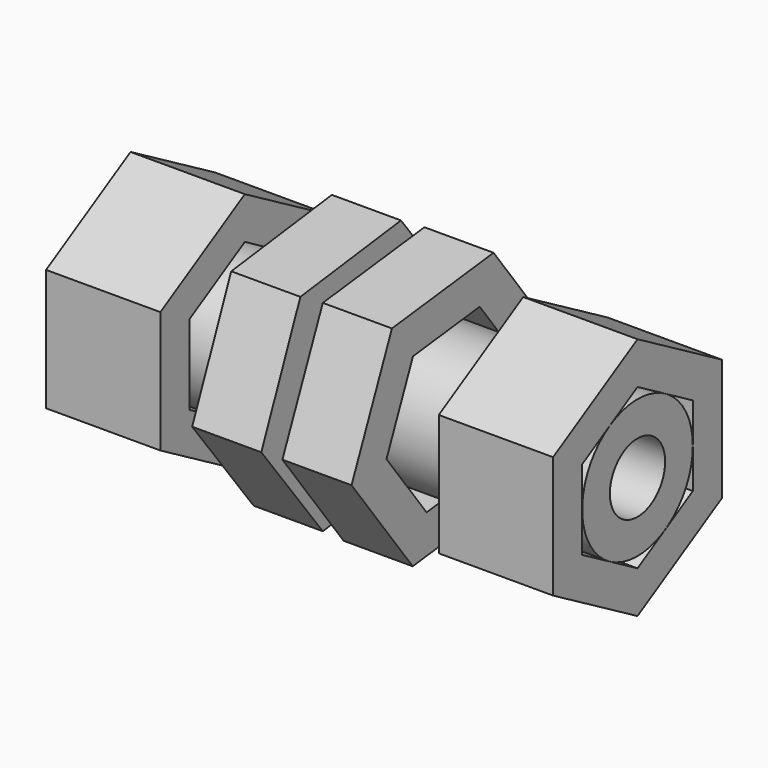
from build123d import *

# Parameters (mm, degrees)
F0_R      = 9.525
F0_R_2    = 4.7625
F1_DEPTH  = 34.925
F3_DEPTH  = 9.525
F6_DEPTH  = 9.525
F8_DEPTH  = 15.748
F10_DEPTH = 15.748


with BuildPart() as f1:
    # F0 (on Right) → F1 (new body, symmetric)
    with BuildSketch(Plane.YZ):
        Circle(F0_R)
        Circle(F0_R_2, mode=Mode.SUBTRACT)
    extrude(amount=F1_DEPTH, both=True)


with BuildPart() as f3:
    # F2 (on Right) → F3 (new body)
    with BuildSketch(Plane.YZ):
        Polygon((10.536149, -14.121386), (17.497554, 2.06388), (6.961405, 16.185266), (-10.536149, 14.121386), (-17.497554, -2.06388), (-6.961405, -16.185266), align=None)
        Polygon((4.56799, 10.620576), (11.481684, 1.354293), (6.913694, -9.266283), (-4.56799, -10.620576), (-11.481684, -1.354293), (-6.913694, 9.266283), align=None, mode=Mode.SUBTRACT)
    extrude(amount=F3_DEPTH)


with BuildPart() as f6:
    # F5 (on offset) → F6 (new body)
    with BuildSketch(Plane.YZ.offset(-3.048)):
        Polygon((-10.591738, 13.885817), (-17.321339, -2.229806), (-6.729601, -16.115623), (10.591738, -13.885817), (17.321339, 2.229806), (6.729601, 16.115623), align=None)
        Polygon((-4.33959, -10.392176), (-11.169684, -1.437893), (-6.830094, 8.954284), (4.33959, 10.392176), (11.169684, 1.437893), (6.830094, -8.954284), align=None, mode=Mode.SUBTRACT)
    extrude(amount=-F6_DEPTH)


with BuildPart() as f8:
    # F7 (on face) → F8 (new body)
    with BuildSketch(Plane.YZ.offset(34.925)):
        Polygon((14.538282, -8.393681), (14.538282, 8.393681), (0, 16.787362), (-14.538282, 8.393681), (-14.538282, -8.393681), (0, -16.787362), align=None)
        Polygon((0, 10.998523), (9.525, 5.499261), (9.525, -5.499261), (0, -10.998523), (-9.525, -5.499261), (-9.525, 5.499261), align=None, mode=Mode.SUBTRACT)
    extrude(amount=-F8_DEPTH)


with BuildPart() as f10:
    # F9 (on face) → F10 (new body)
    with BuildSketch(Plane(origin=(-34.925, 0, 0), x_dir=(0, -1, 0), z_dir=(-1, 0, 0))):
        Polygon((14.538282, -8.393681), (14.538282, 8.393681), (0, 16.787362), (-14.538282, 8.393681), (-14.538282, -8.393681), (0, -16.787362), align=None)
        Polygon((0, 10.998523), (9.525, 5.499261), (9.525, -5.499261), (0, -10.998523), (-9.525, -5.499261), (-9.525, 5.499261), align=None, mode=Mode.SUBTRACT)
    extrude(amount=-F10_DEPTH)


solid = Compound([f1.part, f3.part, f6.part, f8.part, f10.part])
